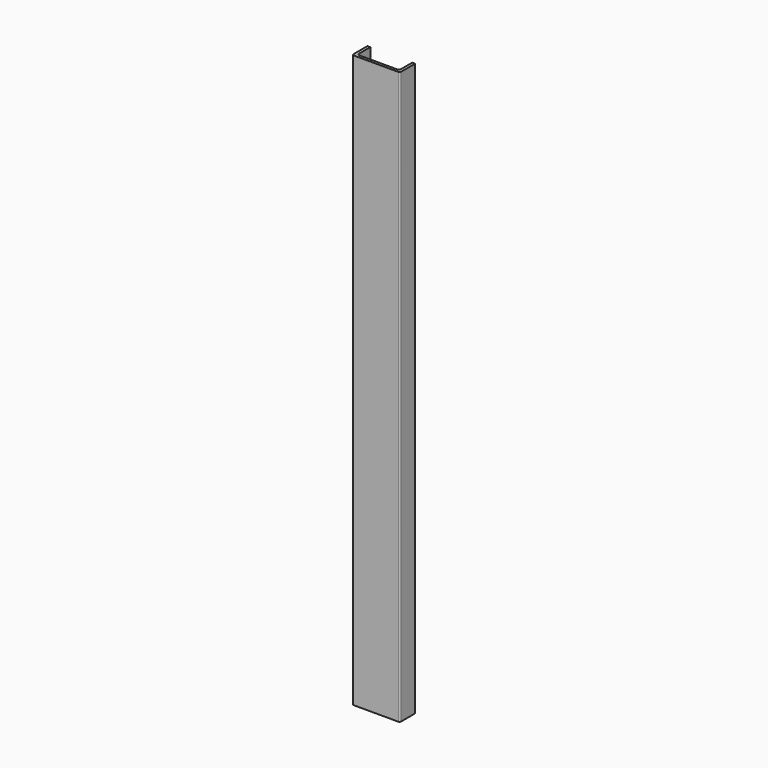
from build123d import *

# Parameters (mm, degrees)
F1_DEPTH = 600


with BuildPart() as f1:
    # F0 (on Top) → F1 (new body)
    with BuildSketch(Plane.XY):
        with BuildLine():
            ThreePointArc((-1.5, 0), (-1.06066, -1.06066), (0, -1.5))
            Line((0, -1.5), (47, -1.5))
            ThreePointArc((47, -1.5), (48.06066, -1.06066), (48.5, 0))
            Line((48.5, 0), (48.5, 18.5))
            Line((48.5, 18.5), (45.5, 18.5))
            Line((45.5, 18.5), (45.5, 4))
            ThreePointArc((45.5, 4), (44.767767, 2.232233), (43, 1.5))
            Line((43, 1.5), (4, 1.5))
            ThreePointArc((4, 1.5), (2.232233, 2.232233), (1.5, 4))
            Line((1.5, 4), (1.5, 18.5))
            Line((1.5, 18.5), (-1.5, 18.5))
            Line((-1.5, 18.5), (-1.5, 0))
        make_face()
    extrude(amount=F1_DEPTH)


solid = f1.part
